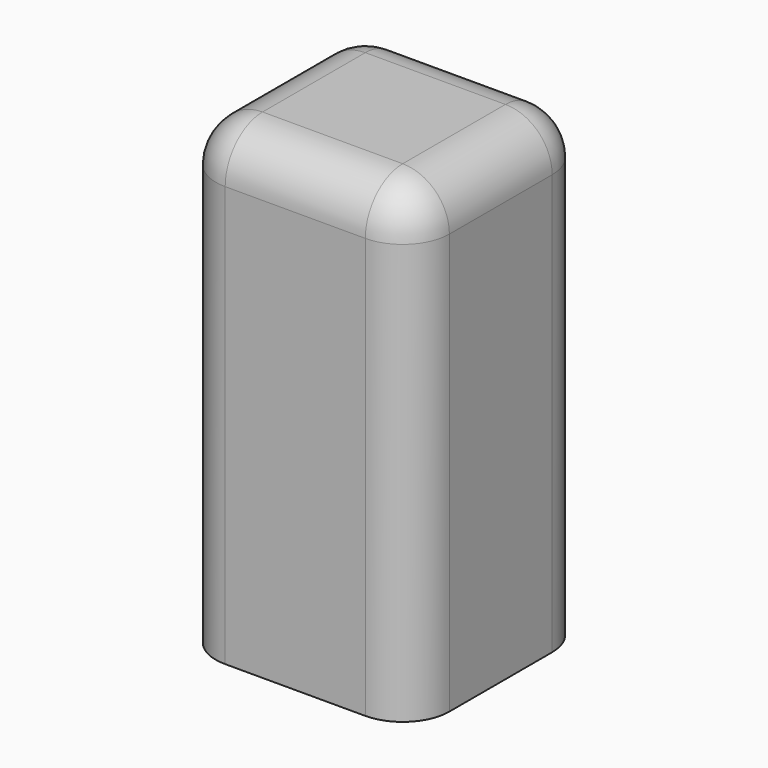
from build123d import *

# Parameters (mm, degrees)
F0_W     = 63.5
F0_H     = 127
F1_DEPTH = 30.1625
F2_R     = 12.7


with BuildPart() as f1:
    # F0 (on Front) → F1 (new body, symmetric)
    with BuildSketch(Plane.XZ):
        Rectangle(F0_W, F0_H)
    extrude(amount=F1_DEPTH, both=True)

    # F2
    f2_edges = [f1.edges().sort_by_distance(p)[0] for p in [
        (31.75, -30.1625, 0),
        (31.75, 30.1625, 0),
        (-31.75, -30.1625, 0),
        (0, -30.1625, 63.5),
        (31.75, 0, 63.5),
        (0, 30.1625, 63.5),
        (-31.75, 0, 63.5),
        (-31.75, 30.1625, 0),
    ]]
    fillet(f2_edges, radius=F2_R)


solid = f1.part
